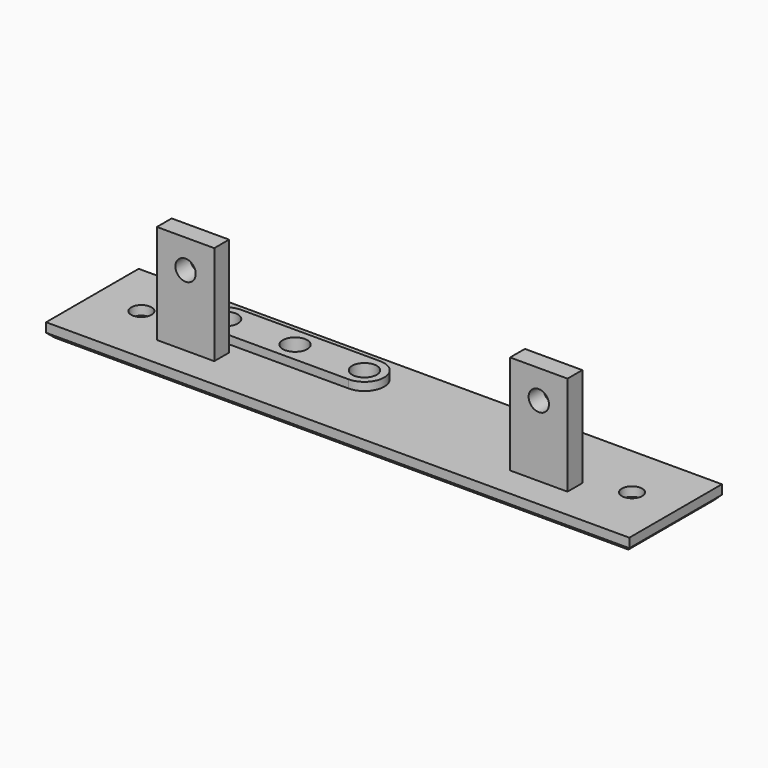
from build123d import *

# Parameters (mm, degrees)
SKETCH_W        = 126
SKETCH_H        = 25
SKETCH_R        = 2.2
PAD_DEPTH       = 3
SKETCH001_W     = 12.4
SKETCH001_H     = 4
PAD001_DEPTH    = 21.497
SKETCH002_R     = 2.2
POCKET_DEPTH    = 4
CHAMFER_SIZE    = 1
SKETCH003_R     = 2.65
POCKET001_DEPTH = 24.498
CHAMFER001_SIZE = 1
SKETCH004_R     = 2.65
PAD002_DEPTH    = 1.75


with BuildPart() as part:
    # Sketch → Pad (new body)
    with BuildSketch(Plane.XY):
        Rectangle(SKETCH_W, SKETCH_H)
        with Locations((-53, 0.726)):
            Circle(SKETCH_R, mode=Mode.SUBTRACT)
        with Locations((53, 0.726)):
            Circle(SKETCH_R, mode=Mode.SUBTRACT)
    extrude(amount=PAD_DEPTH)

    # Sketch001 (on Face8 of Pad) → Pad001 (join)
    with BuildSketch(Plane.XY.offset(3)):
        with Locations((-38.154, -3.892)):
            Rectangle(SKETCH001_W, SKETCH001_H)
        with Locations((38.154, -3.892)):
            Rectangle(SKETCH001_W, SKETCH001_H)
    extrude(amount=PAD001_DEPTH)

    # Sketch002 (on Face11 of Pad001) → Pocket (cut)
    with BuildSketch(Plane.XZ.offset(5.892)):
        with Locations((-38.154, 18.297)):
            Circle(SKETCH002_R)
    pocket = extrude(amount=-POCKET_DEPTH, mode=Mode.SUBTRACT)

    # Mirrored: Pocket across Sketch002 V_Axis
    add(pocket.mirror(Plane(origin=(0, -5.892, 0), x_dir=(0, -1, 0), z_dir=(1, 0, 0))), mode=Mode.SUBTRACT)

    # Chamfer
    chamfer_edges = [part.edges().sort_by_distance(p)[0] for p in [
        (0, 12.5, 0),
        (63, 0, 0),
        (0, -12.5, 0),
        (-63, 0, 0),
        (50.8, 0.726, 0),
        (-55.2, 0.726, 0),
    ]]
    chamfer(chamfer_edges, length=CHAMFER_SIZE)

    # Sketch003 (on Face8 of Chamfer) → Pocket001 (cut, through all)
    with BuildSketch(Plane(origin=(0, 0, 0), x_dir=(1, 0, 0), z_dir=(0, 0, -1))):
        with Locations((-38, -4.726)):
            Circle(SKETCH003_R)
        with Locations((-23, -4.726)):
            Circle(SKETCH003_R)
        with Locations((-8, -4.726)):
            Circle(SKETCH003_R)
    extrude(amount=-POCKET001_DEPTH, mode=Mode.SUBTRACT)

    # Chamfer001
    chamfer001_edges = [part.edges().sort_by_distance(p)[0] for p in [
        (-10.65, 4.726, 0),
        (-25.65, 4.726, 0),
        (-40.65, 4.726, 0),
    ]]
    chamfer(chamfer001_edges, length=CHAMFER001_SIZE)

    # Sketch004 (on Face20 of Chamfer001) → Pad002 (join)
    with BuildSketch(Plane.XY.offset(3)):
        with BuildLine():
            ThreePointArc((-38, 8.976), (-42.25, 4.726), (-38, 0.476))
            Line((-38, 0.476), (-8, 0.476))
            ThreePointArc((-8, 0.476), (-3.75, 4.726), (-8, 8.976))
            Line((-38, 8.976), (-8, 8.976))
        make_face()
        with Locations((-38, 4.726)):
            Circle(SKETCH004_R, mode=Mode.SUBTRACT)
        with Locations((-23, 4.726)):
            Circle(SKETCH004_R, mode=Mode.SUBTRACT)
        with Locations((-8, 4.726)):
            Circle(SKETCH004_R, mode=Mode.SUBTRACT)
    extrude(amount=PAD002_DEPTH)


solid = part.part
